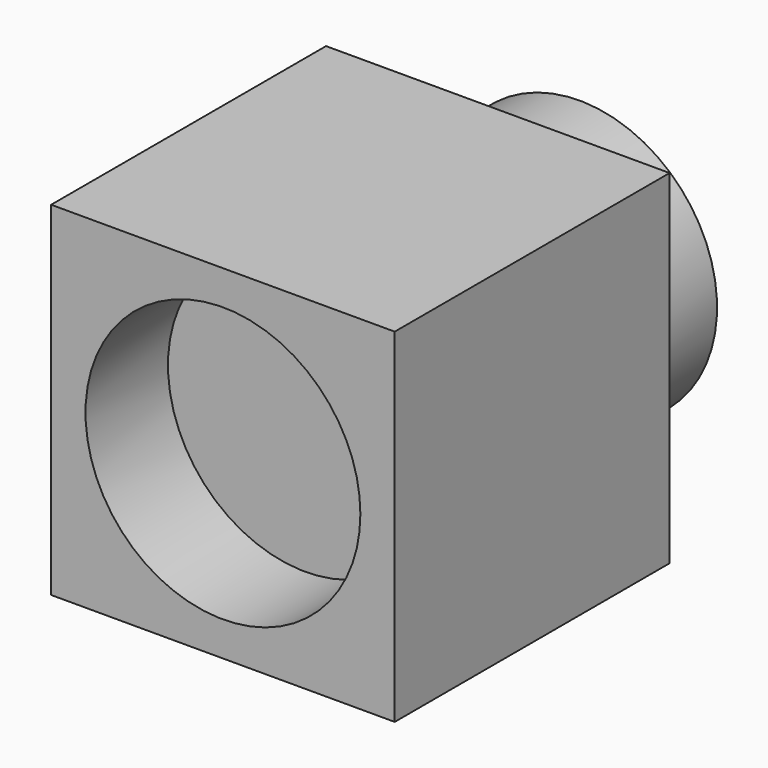
from build123d import *

# Parameters (mm, degrees)
F0_W     = 254
F0_H     = 254
F1_DEPTH = 254
F3_R     = 101.6
F4_DEPTH = 76.2
F2_R     = 101.6
F5_DEPTH = 76.2


with BuildPart() as f1:
    # F0 (on Front) → F1 (new body)
    with BuildSketch(Plane.XZ):
        Rectangle(F0_W, F0_H)
    extrude(amount=F1_DEPTH)

    # F3 (on face) → F4 (cut)
    with BuildSketch(Plane.XZ.offset(254)):
        Circle(F3_R)
    extrude(amount=-F4_DEPTH, mode=Mode.SUBTRACT)

    # F2 (on face) → F5 (join)
    with BuildSketch(Plane(origin=(0, 0, 0), x_dir=(-1, 0, 0), z_dir=(0, 1, 0))):
        with Locations((0.460889, 0.153631)):
            Circle(F2_R)
    extrude(amount=F5_DEPTH)


solid = f1.part
